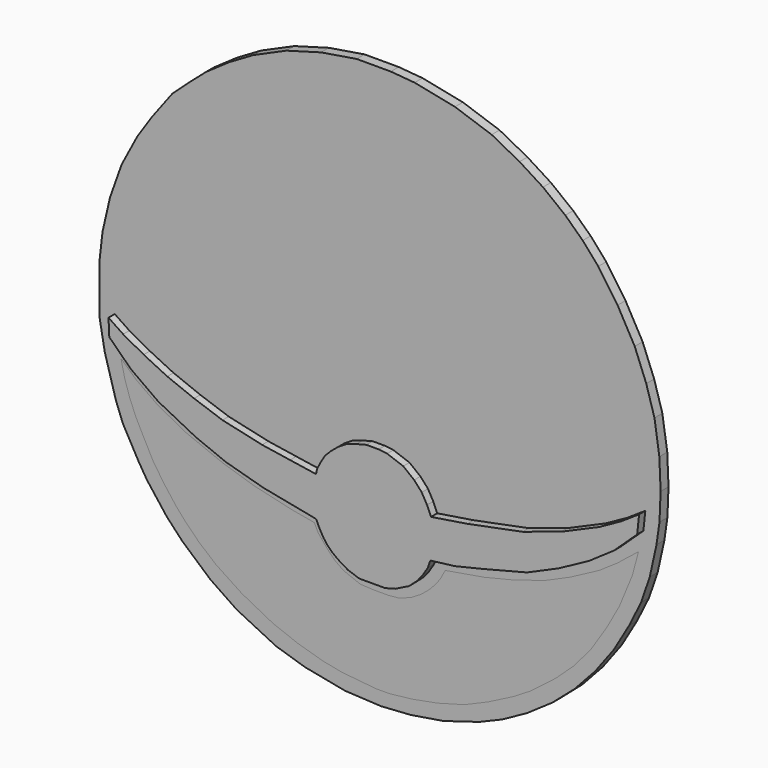
from build123d import *

# Parameters (mm, degrees)
F8_DEPTH  = 1.55551
F9_DEPTH  = 1.83923
F10_DEPTH = 2.08754
F11_DEPTH = 2.45222
F12_DEPTH = 2.78154


with BuildPart() as f8:
    # F1 (on Front) → F8 (new body)
    with BuildSketch(Plane.XZ):
        Polygon((4.4256118126, 58.8690973818), (0, 59.225615114), (-4.3890504166, 58.8393099606), (-7.3967687786, 58.3489201963), (-12.136252597, 57.2715103626), (-16.9156622142, 55.5292591453), (-20.9887549281, 53.2925911248), (-24.7344188392, 50.9867593646), (-29.4091310352, 47.1825115383), (-32.9317227006, 43.1987456977), (-35.3693664074, 39.6438501775), (-37.2242070735, 36.3614708185), (-39.3328852952, 31.6237919033), (-40.7569259405, 26.9134994596), (-41.2383079529, 24.2846626788), (-41.8117418885, 20.8093114197), (-42.0309379697, 17.6641214639), (-42.0309379697, 15.8988311887), (-37.1620953083, 12.5660663471), (-34.0044274926, 10.8788488433), (-29.61964719, 8.8533340022), (-25.0709019601, 7.3663806543), (-20.0331453234, 5.939302966), (-14.7068509832, 5.0043542869), (-10.3659946471, 4.273712635), (-9.7968615592, 5.5905310437), (-9.1384528205, 6.5167672001), (-7.6869116165, 8.0642132089), (-5.8861905709, 9.5062237233), (-3.4731542692, 10.6054963544), (-1.4756965684, 10.899069719), (0.1745377667, 10.899069719), (2.9681264423, 10.650425218), (4.6062520705, 10.1823899895), (6.0542374849, 9.3048224226), (7.2682057507, 8.3248727024), (8.540677838, 7.023147773), (9.6083851531, 5.7067973539), (10.3689432144, 4.3319417164), (15.7783012837, 5.0604809076), (21.7555742711, 6.4237192273), (27.0843729377, 7.8994845971), (32.7831804752, 10.1252961904), (37.5447496772, 12.5949475914), (41.9392623007, 15.7714039087), (41.9392623007, 19.9973266572), (41.3869693875, 23.8737072796), (39.8939400911, 29.880899936), (37.4089442194, 35.776976496), (35.7214584947, 38.7769564986), (33.6143113673, 42.0499034226), (31.7599214613, 44.3941317499), (29.6577159315, 46.6161258519), (27.6350732893, 48.5318005085), (25.1016095281, 50.6032817066), (22.5751865655, 52.3815229535), (19.3541590124, 54.2721264064), (15.6049896032, 55.8896288276), (10.257223621, 57.6722174883), align=None)
    extrude(amount=F8_DEPTH)


with BuildPart() as f8b:
    # F2 (on Front) → F8, piece 2 (new body)
    with BuildSketch(Plane.XZ):
        Polygon((-5.4783523083, -26.6781002283), (0.2166803024, -26.9723460078), (4.8513691872, -26.6662798822), (10.0284749642, -25.8256494999), (15.6405754387, -24.1259858012), (19.2323196679, -22.6187352091), (23.1119692326, -20.490558818), (27.1695293486, -17.6933016628), (30.6430477649, -14.6808698773), (33.870652318, -11.1766122282), (36.8058234453, -7.2420989163), (39.2379388213, -3.079433227), (41.1088019609, 0.7090601139), (42.4728244543, 4.6904254705), (43.5296371579, 9.48521588), (44.0027862787, 12.7721037716), (44.1781431437, 17.0829445124), (43.9787507057, 21.8351259828), (43.2091318071, 26.9630588591), (41.919067502, 31.2859043479), (40.107190609, 35.8538627625), (37.410940975, 40.6820327044), (34.3698188663, 45.0712814927), (31.9243781269, 47.8615909815), (29.1800182313, 50.4633001983), (25.665782392, 53.2161183655), (21.9758357853, 55.5394180119), (17.5938270986, 57.8538365662), (11.8215074763, 59.8336532712), (5.471679382, 61.1205883324), (1.7281846376, 61.4383108914), (-3.6398766097, 61.4383108914), (-9.2623485252, 60.5224333704), (-14.6983005106, 58.9926019311), (-19.913058728, 56.6811971366), (-23.7184204161, 54.4543527067), (-27.326470241, 51.9456341863), (-29.8316143453, 49.7715435922), (-32.6641462743, 47.1839606762), (-35.9137654305, 42.8587608039), (-38.1564609706, 39.4947193563), (-40.6338907778, 34.7763523459), (-42.4509197474, 29.6583883464), (-43.6319895089, 24.5101377368), (-44.1121794283, 20.2996022999), (-44.1121794283, 16.3036733866), (-44.1121794283, 12.5329205766), (-43.2920046151, 7.993163541), (-41.5290892124, 1.8226751126), (-40.4436104, -1.0153932963), (-37.9650518298, -5.4606390186), (-36.6572849452, -7.5964089483), (-33.520296216, -11.6904433817), (-31.0569517314, -14.307115227), (-26.6514960676, -18.167341128), (-22.4965307862, -20.9885686636), (-16.3343045861, -24.029141292), (-11.7937168106, -25.4480745643), align=None)
    extrude(amount=F8_DEPTH)


with BuildPart() as f8c:
    # F6 (on face) → F8, piece 3 (new body)
    with BuildSketch(Plane.XZ):
        Polygon((-39.4058637321, 12.1755274013), (-41.7097657919, 13.7232895941), (-41.5896736085, 11.0662933439), (-38.167104125, 7.718777284), (-33.8857509196, 4.6513155103), (-27.9843062162, 1.6452710843), (-23.2671946287, -0.265245355), (-17.3436701298, -1.9191234605), (-9.0452926233, -3.5438209306), (-8.4814550355, -4.7332136892), (-7.8435726464, -5.8284453116), (-7.2565805167, -6.6055203788), (-6.6204098985, -7.2479359806), (-5.65450266, -7.9970061779), (-4.0568239056, -8.9709274471), (-2.2532895673, -9.5878615975), (1.8074053805, -9.5878615975), (3.405361902, -9.1621764004), (5.5468701757, -8.1033194438), (6.8436725996, -6.9611817598), (7.7597624622, -5.8309412561), (8.5268085822, -4.5806686394), (8.9285951108, -3.4539180342), (12.7797136083, -2.9755516443), (17.3038691282, -1.9026392838), (24.1477843374, -0.1581676916), (29.1612390429, 2.0472824108), (33.9267589152, 4.6374411322), (37.8335081041, 7.3314490728), (41.4695516229, 10.7422517613), (41.7738370597, 13.6216161773), (38.9500446618, 11.7390872911), (35.5257876217, 9.840330109), (29.4861122966, 7.2202542797), (23.4208796173, 5.2439421415), (14.7447139025, 3.5248019267), (9.0305432677, 2.6254947297), (8.4019750357, 4.0748892352), (7.5715421699, 5.5554476567), (6.3800550997, 6.8760891445), (4.6626655385, 8.2294493914), (2.1394270007, 9.140885435), (0.7961295196, 9.3011055142), (-1.1256345315, 9.3011055142), (-2.6870677248, 8.9007383212), (-4.3485932983, 8.3402236924), (-5.5096587166, 7.6195620932), (-6.6659613512, 6.6656740382), (-7.6563921757, 5.6642391719), (-8.3496933803, 4.5087374747), (-8.8779227808, 3.4742879216), (-9.0650031343, 2.6709388476), (-13.1493471563, 3.2862944063), (-17.5470802933, 3.9661154151), (-23.7777363509, 5.3605264984), (-28.2477587461, 6.909196265), (-32.463233918, 8.5821058601), (-36.1787602305, 10.3962598369), align=None)
    extrude(amount=F8_DEPTH)


with BuildPart() as f8d:
    # F7 (on face) → F8, piece 4 (new body)
    with BuildSketch(Plane.XZ):
        Polygon((-38.3758097887, 5.7510077022), (-40.741994977, 7.9044094309), (-40.1046127081, 5.1810434088), (-39.3513403833, 2.8922571801), (-38.4532101452, 0.6903866888), (-37.1494702995, -1.8881192664), (-35.6349535286, -4.7350563109), (-33.9911617339, -7.1951462887), (-32.0695154369, -9.7218332812), (-30.6444130838, -11.3631878048), (-28.4548643976, -13.5623253882), (-25.7890000939, -15.7947614789), (-21.7165350914, -18.4828545898), (-16.81561023, -21.0261531174), (-12.8426356241, -22.5474964827), (-8.9270398021, -23.6911159009), (-5.936909467, -24.2777410895), (-2.6124352589, -24.6077440679), (-0.602933811, -24.8051490635), (1.5352523187, -24.8051490635), (5.1218862645, -24.3913065642), (9.0989479795, -23.6516203731), (13.3221643046, -22.4930383265), (17.0759670436, -20.8794269711), (21.1379379034, -18.8052281737), (23.7998254597, -17.1631556004), (27.7454815805, -14.108389616), (30.5123161525, -11.5340305492), (33.1829115748, -8.406303823), (35.6948934495, -4.5408545993), (37.6889146864, -0.9410708444), (39.7193841636, 3.9715399034), (40.6952127814, 7.5821848586), (39.2798185349, 6.4843469299), (37.3563319445, 4.9328566529), (34.5007143915, 2.9921862297), (29.952539131, 0.5803825916), (26.0651353747, -1.1340037454), (21.1461037397, -2.6835282333), (16.4334345609, -3.829353489), (10.2887004614, -4.8821722157), (9.496551007, -6.3465451822), (8.650504984, -7.4316915125), (7.786066737, -8.3513073623), (6.480212789, -9.4364527613), (4.9168663099, -10.3744613007), (3.0776353087, -11.0733686015), (1.3487582328, -11.2388990819), (-1.0364950867, -11.2388990819), (-3.0510600191, -11.1344214529), (-4.5587155037, -10.552897118), (-5.7431492023, -10.0828455761), (-7.037086878, -9.1701569036), (-8.2617066801, -7.9224314541), (-9.7170490772, -6.1522298492), (-10.2986106649, -4.9543878995), (-13.795286417, -4.3266089633), (-19.7463687509, -2.9419646598), (-24.6303696185, -1.4054253697), (-30.7158734649, 1.0299592977), (-35.101801157, 3.429882694), align=None)
    extrude(amount=F8_DEPTH)


with BuildPart() as f9:
    # F3 (on face) → F9 (new body)
    with BuildSketch(Plane.XZ):
        Polygon((-1.8681735675, -4.3407361946), (-0.0605444946, -4.7506978743), (1.7575532715, -4.3899875236), (3.2717541101, -3.320975239), (4.2202389401, -1.7285029561), (4.4390061177, 0.1120764), (3.8902288104, 1.8825099377), (2.6687956002, 3.2766736143), (0.9859033855, 4.0535038647), (-0.8674604813, 4.0786796812), (-2.5708325502, 3.3478479364), (-3.8296843159, 1.9873760784), (-4.4263488718, 0.232502051), (-4.2576574956, -1.613340484), (-3.3527784589, -3.2309885833), align=None)
    extrude(amount=F9_DEPTH)


with BuildPart() as f10:
    # F4 (on face) → F10 (new body)
    with BuildSketch(Plane.XZ):
        Polygon((1.2150672264, 4.5983814634), (0.0862780944, 4.8335455358), (-0.7262040162, 4.6973666176), (-1.7659321893, 4.3366448954), (-3.0823871493, 3.6889896728), (-3.9335116744, 2.7333414182), (-4.5905201696, 1.404392533), (-4.9488884397, 0.3740839893), (-4.9488884397, -0.7308846107), (-4.5009278692, -2.0598333795), (-3.9185797796, -3.2095978968), (-3.0973190442, -4.0756543167), (-2.0222144667, -4.658002872), (-0.9172459249, -5.1507586613), (0.322110689, -5.1507586613), (1.3420147588, -4.9291611649), (2.5789116044, -4.3376018293), (3.2914716285, -3.93426558), (3.8830309641, -3.396484768), (4.3785558082, -2.317081904), (4.785141442, -1.2342047412), (4.9409344792, -0.4469781707), (4.9409344792, 0.2523832372), (4.7685052268, 1.0766327614), (4.1499189101, 2.387835877), (3.4726453014, 3.3284935635), (2.5413944386, 3.9963605814), align=None)
    extrude(amount=F10_DEPTH)


with BuildPart() as f11:
    # F5 (on face) → F11 (new body)
    with BuildSketch(Plane.XZ):
        Polygon((2.4162756745, 6.8102376536), (0.2112620423, 7.4038952589), (-1.9089435227, 6.9233151153), (-3.9726095274, 6.1317724176), (-5.6970436126, 4.7465711832), (-6.8278200924, 2.626365982), (-7.3649380356, 0.7040464552), (-7.3649380356, -1.7271224642), (-6.6299336031, -3.5929032601), (-5.6687742472, -5.1477202214), (-3.8595322985, -6.5329209901), (-1.7958655953, -7.4092727154), (0, -7.7767749317), (1.7943487037, -7.4940808117), (3.6035906523, -6.7873457447), (5.6107183918, -5.3456062451), (6.8545718677, -3.2254008111), (7.4199601077, -1.0486567626), (7.4199601077, 0.9302016697), (6.7980331369, 2.8525211383), (5.5259102955, 4.8313792795), (4.3103257194, 5.877347663), align=None)
        Polygon((-1.5131714754, 5.6794616394), (0, 6.0752332211), (2.02050386, 5.5381148122), (4.1407090612, 4.4638775289), (5.2149468102, 3.0786762945), (6.0630287044, 1.2694345787), (6.260914728, -0.2288438845), (5.9216818772, -1.9250082551), (4.9605220556, -3.790789051), (3.8862847723, -5.0911814906), (2.4162756745, -5.8544552885), (0.3808784822, -6.4763827249), (-0.9195141029, -6.4763827249), (-2.9549112078, -5.5152229033), (-4.3401122093, -4.6671405435), (-5.4143494926, -2.9709762894), (-6.1493543908, -1.1617342243), (-6.1493543908, 0.6475076079), (-5.4143494926, 2.485018922), (-4.453189671, 4.1246446781), (-3.0962582678, 5.0009959377), align=None, mode=Mode.SUBTRACT)
    extrude(amount=F11_DEPTH)


with BuildPart() as f12:
    # F6 (on face) → F12 (new body)
    with BuildSketch(Plane.XZ):
        Polygon((-39.4058637321, 12.1755274013), (-41.7097657919, 13.7232895941), (-41.5896736085, 11.0662933439), (-38.167104125, 7.718777284), (-33.8857509196, 4.6513155103), (-27.9843062162, 1.6452710843), (-23.2671946287, -0.265245355), (-17.3436701298, -1.9191234605), (-9.0452926233, -3.5438209306), (-8.4814550355, -4.7332136892), (-7.8435726464, -5.8284453116), (-7.2565805167, -6.6055203788), (-6.6204098985, -7.2479359806), (-5.65450266, -7.9970061779), (-4.0568239056, -8.9709274471), (-2.2532895673, -9.5878615975), (1.8074053805, -9.5878615975), (3.405361902, -9.1621764004), (5.5468701757, -8.1033194438), (6.8436725996, -6.9611817598), (7.7597624622, -5.8309412561), (8.5268085822, -4.5806686394), (8.9285951108, -3.4539180342), (12.7797136083, -2.9755516443), (17.3038691282, -1.9026392838), (24.1477843374, -0.1581676916), (29.1612390429, 2.0472824108), (33.9267589152, 4.6374411322), (37.8335081041, 7.3314490728), (41.4695516229, 10.7422517613), (41.7738370597, 13.6216161773), (38.9500446618, 11.7390872911), (35.5257876217, 9.840330109), (29.4861122966, 7.2202542797), (23.4208796173, 5.2439421415), (14.7447139025, 3.5248019267), (9.0305432677, 2.6254947297), (8.4019750357, 4.0748892352), (7.5715421699, 5.5554476567), (6.3800550997, 6.8760891445), (4.6626655385, 8.2294493914), (2.1394270007, 9.140885435), (0.7961295196, 9.3011055142), (-1.1256345315, 9.3011055142), (-2.6870677248, 8.9007383212), (-4.3485932983, 8.3402236924), (-5.5096587166, 7.6195620932), (-6.6659613512, 6.6656740382), (-7.6563921757, 5.6642391719), (-8.3496933803, 4.5087374747), (-8.8779227808, 3.4742879216), (-9.0650031343, 2.6709388476), (-13.1493471563, 3.2862944063), (-17.5470802933, 3.9661154151), (-23.7777363509, 5.3605264984), (-28.2477587461, 6.909196265), (-32.463233918, 8.5821058601), (-36.1787602305, 10.3962598369), align=None)
    extrude(amount=F12_DEPTH)


solid = Compound([f8.part, f8b.part, f8c.part, f8d.part, f9.part, f10.part, f11.part, f12.part])
